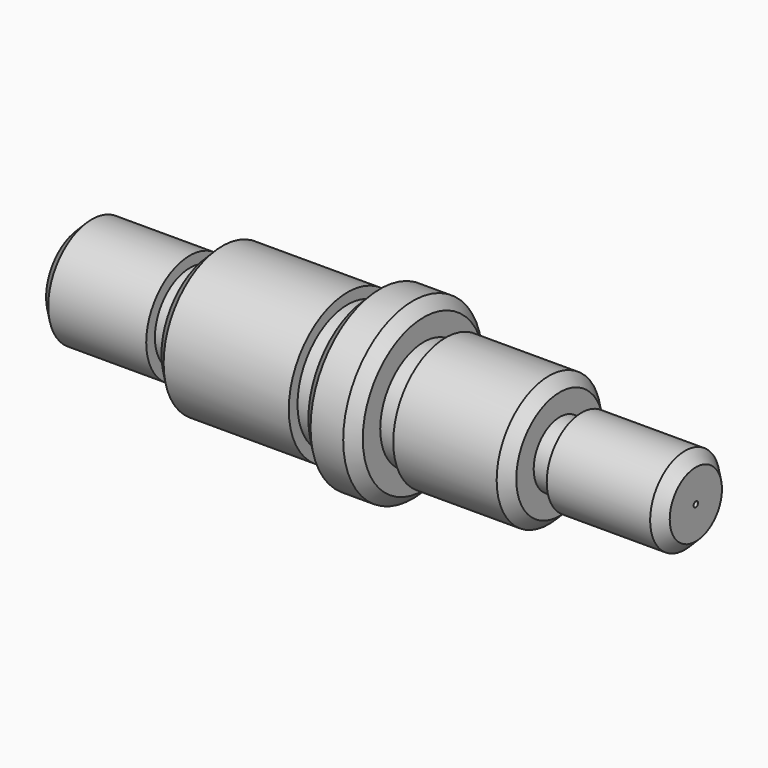
from build123d import *

# Parameters (mm, degrees)
F0_W    = 4
F0_H    = 8
F0_H_2  = 10
F0_H_3  = 6
F2_SIZE = 2


with BuildPart() as f1:
    # F0 (on Top) → F1 (revolve)
    with BuildSketch(Plane.XY):
        Polygon((49, 0), (24, 0), (24, -8), (24, -13.5), (49, -13.5), (49, -11.5), (53, -11.5), (53, 0), align=None)
        Polygon((63, 0), (53, 0), (53, -11.5), (53, -13.5), (53, -16), (63, -16), (63, -10), align=None)
        with Locations((22, -4)):
            Rectangle(F0_W, F0_H)
        with Locations((65, -5)):
            Rectangle(F0_W, F0_H_2)
        Polygon((88, 0), (67, 0), (67, -10), (67, -12), (88, -12), (88, -6), align=None)
        with Locations((90, -3)):
            Rectangle(F0_W, F0_H_3)
        Polygon((20, 0), (0.5, 0), (0, -0.5), (0, -10), (20, -10), (20, -8), align=None)
        Polygon((112.5, 0), (92, 0), (92, -6), (92, -8), (113, -8), (113, -0.5), align=None)
    revolve(axis=Axis((10, 0, 0), (1, 0, 0)))

    # F2
    f2_edges = [f1.edges().sort_by_distance(p)[0] for p in [
        (0, 10, 0),
        (24, 13.5, 0),
        (53, 16, 0),
        (63, 16, 0),
        (88, 12, 0),
        (113, 8, 0),
    ]]
    chamfer(f2_edges, length=F2_SIZE)


solid = f1.part
